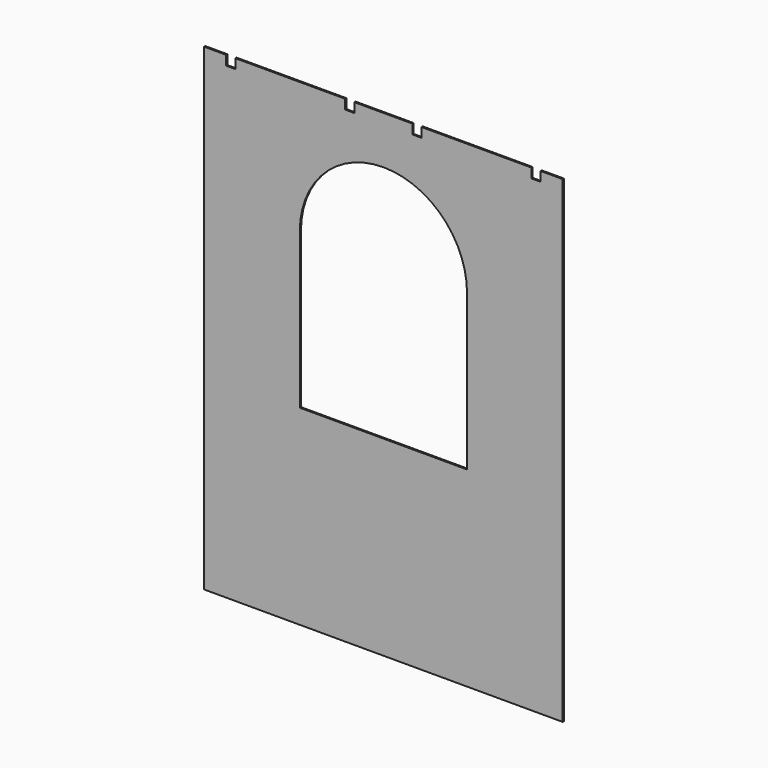
from build123d import *

# Parameters (mm, degrees)
F1_DEPTH = 3


with BuildPart() as f1:
    # F0 (on Front) → F1 (new body)
    with BuildSketch(Plane.XZ):
        Polygon((0, 1000), (0, 0), (750, 0), (750, 1000), (704, 1000), (704, 980), (685, 980), (685, 1000), (455, 1000), (455, 980), (436, 980), (436, 1000), (314, 1000), (314, 980), (295, 980), (295, 1000), (65, 1000), (65, 980), (46, 980), (46, 1000), align=None)
        with BuildLine():
            Line((550, 400), (200, 400))
            Line((200, 400), (200, 725))
            ThreePointArc((200, 725), (375, 900), (550, 725))
            Line((550, 725), (550, 400))
        make_face(mode=Mode.SUBTRACT)
    extrude(amount=F1_DEPTH)


solid = f1.part
